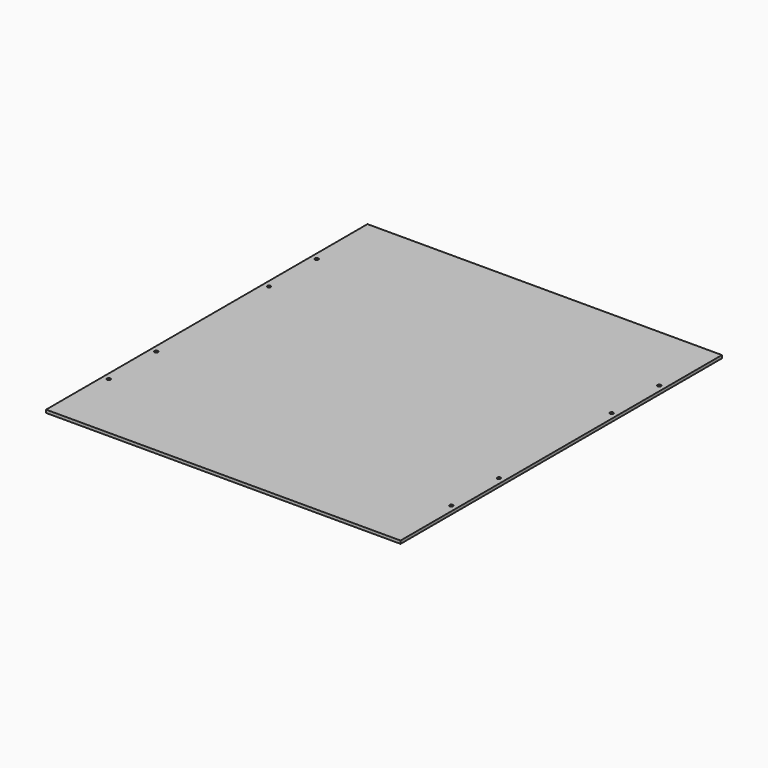
from build123d import *

# Parameters (mm, degrees)
F0_W     = 381
F0_H     = 431.8
F0_R     = 1.85
F1_DEPTH = 3.175


with BuildPart() as f1:
    # F0 (on Top) → F1 (new body)
    with BuildSketch(Plane.XY):
        Rectangle(F0_W, F0_H)
        with Locations((-184.15, -139.7)):
            Circle(F0_R, mode=Mode.SUBTRACT)
        with Locations((-184.15, -75.7)):
            Circle(F0_R, mode=Mode.SUBTRACT)
        with Locations((184.15, -139.7)):
            Circle(F0_R, mode=Mode.SUBTRACT)
        with Locations((184.15, -75.7)):
            Circle(F0_R, mode=Mode.SUBTRACT)
        with Locations((-184.15, 75.7)):
            Circle(F0_R, mode=Mode.SUBTRACT)
        with Locations((-184.15, 139.7)):
            Circle(F0_R, mode=Mode.SUBTRACT)
        with Locations((184.15, 75.7)):
            Circle(F0_R, mode=Mode.SUBTRACT)
        with Locations((184.15, 139.7)):
            Circle(F0_R, mode=Mode.SUBTRACT)
    extrude(amount=F1_DEPTH)


solid = f1.part
